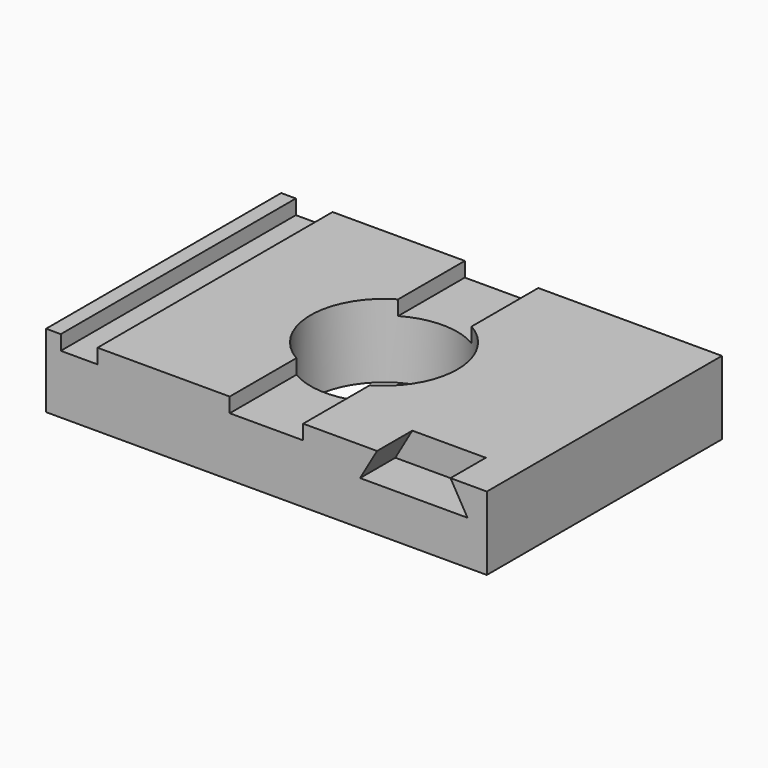
from build123d import *

# Parameters (mm, degrees)
F0_W     = 76.2
F0_H     = 50.8
F0_R     = 12.7
F1_DEPTH = 12.7
F2_W     = 6.35
F2_H     = 50.8
F3_DEPTH = 2.54
F5_DEPTH = 7.62


with BuildPart() as f1:
    # F0 (on Top) → F1 (new body)
    with BuildSketch(Plane.XY):
        Rectangle(F0_W, F0_H)
        Circle(F0_R, mode=Mode.SUBTRACT)
    extrude(amount=F1_DEPTH)

    # F2 (on face) → F3 (cut)
    with BuildSketch(Plane.XY.offset(12.7)):
        with Locations((-32.385, 0)):
            Rectangle(F2_W, F2_H)
        with BuildLine():
            Line((6.35, 25.4), (-6.35, 25.4))
            Line((-6.35, 25.4), (-6.35, 10.9985226281))
            ThreePointArc((-6.35, 10.9985226281), (0, 12.7), (6.35, 10.9985226281))
            Line((6.35, 10.9985226281), (6.35, 25.4))
        make_face()
        with BuildLine():
            Line((-6.35, -10.9985226281), (-6.35, -25.4))
            Line((-6.35, -25.4), (6.35, -25.4))
            Line((6.35, -25.4), (6.35, -10.9985226281))
            ThreePointArc((6.35, -10.9985226281), (0, -12.7), (-6.35, -10.9985226281))
        make_face()
    extrude(amount=-F3_DEPTH, mode=Mode.SUBTRACT)

    # F4 (on face) → F5 (cut)
    with BuildSketch(Plane.XZ.offset(25.4)):
        Polygon((31.8187926716, 12.7), (19.1187926716, 12.7), (16.1858533041, 7.62), (34.7517320391, 7.62), align=None)
    extrude(amount=-F5_DEPTH, mode=Mode.SUBTRACT)


solid = f1.part
